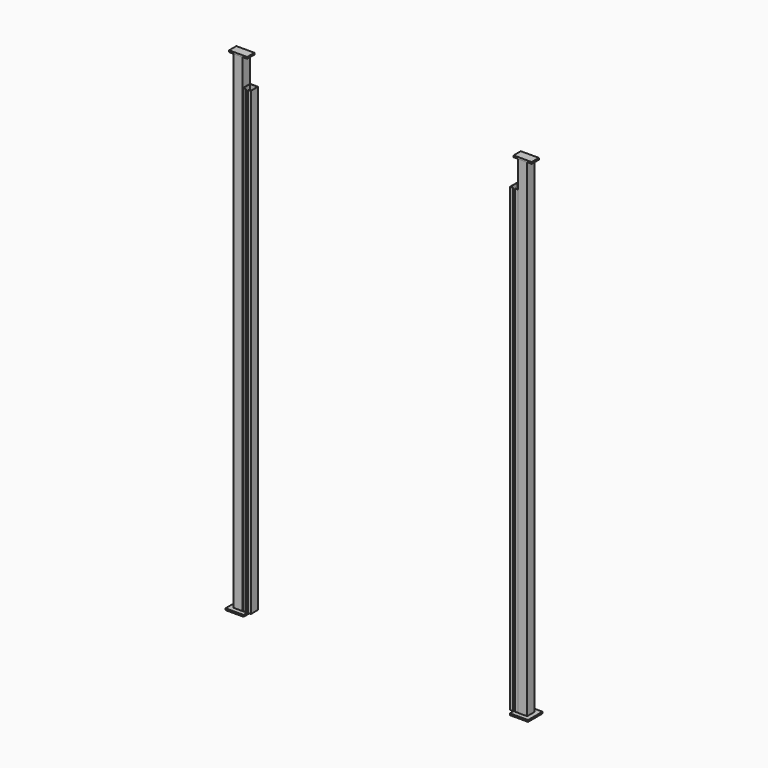
from build123d import *

# Parameters (mm, degrees)
F0_W     = 101.6
F0_H     = 101.6
F0_W_2   = 88.9
F0_H_2   = 88.9
F1_DEPTH = 5486.4
F2_W     = 203.2
F2_H     = 203.2
F3_DEPTH = 19.05
F4_W     = 203.2
F4_H     = 101.6
F5_DEPTH = 19.05
F7_DEPTH = 5181.6


with BuildPart() as f1:
    # F0 (on Top) → F1 (new body)
    with BuildSketch(Plane.XY):
        with Locations((-1600.2, 758.698753)):
            Rectangle(F0_W, F0_H)
        with Locations((-1600.2, 758.698753)):
            Rectangle(F0_W_2, F0_H_2, mode=Mode.SUBTRACT)
        with Locations((1600.2, 758.698753)):
            Rectangle(F0_W, F0_H)
        with Locations((1600.2, 758.698753)):
            Rectangle(F0_W_2, F0_H_2, mode=Mode.SUBTRACT)
    extrude(amount=F1_DEPTH)


with BuildPart() as f3:
    # F2 (on face) → F3 (new body)
    with BuildSketch(Plane(origin=(0, 0, 0), x_dir=(1, 0, 0), z_dir=(0, 0, -1))):
        with Locations((-1600.2, -758.698753)):
            Rectangle(F2_W, F2_H)
        with Locations((1600.2, -758.698753)):
            Rectangle(F2_W, F2_H)
    extrude(amount=F3_DEPTH)


with BuildPart() as f5:
    # F4 (on face) → F5 (new body)
    with BuildSketch(Plane.XY.offset(5486.4)):
        with Locations((-1600.2, 758.698753)):
            Rectangle(F4_W, F4_H)
        with Locations((1600.2, 758.698753)):
            Rectangle(F4_W, F4_H)
    extrude(amount=F5_DEPTH)


with BuildPart() as f7:
    # F6 (on face) → F7 (new body)
    with BuildSketch(Plane.XY):
        Polygon((-1547.579288, 810.335406), (-1547.579288, 708.735406), (-1515.474194, 708.735406), (-1515.474194, 711.402406), (-1544.912288, 711.402406), (-1544.912288, 807.668406), (-1461.346288, 807.668406), (-1461.346288, 711.402406), (-1490.131021, 711.402406), (-1490.074194, 708.735406), (-1458.679288, 708.735406), (-1458.679288, 810.335406), align=None)
        Polygon((1490.074194, 708.735406), (1490.131021, 711.402406), (1461.346288, 711.402406), (1461.346288, 807.668406), (1544.912288, 807.668406), (1544.912288, 711.402406), (1515.474194, 711.402406), (1515.474194, 708.735406), (1547.579288, 708.735406), (1547.579288, 810.335406), (1458.679288, 810.335406), (1458.679288, 708.735406), align=None)
    extrude(amount=F7_DEPTH)


solid = Compound([f1.part, f3.part, f5.part, f7.part])
